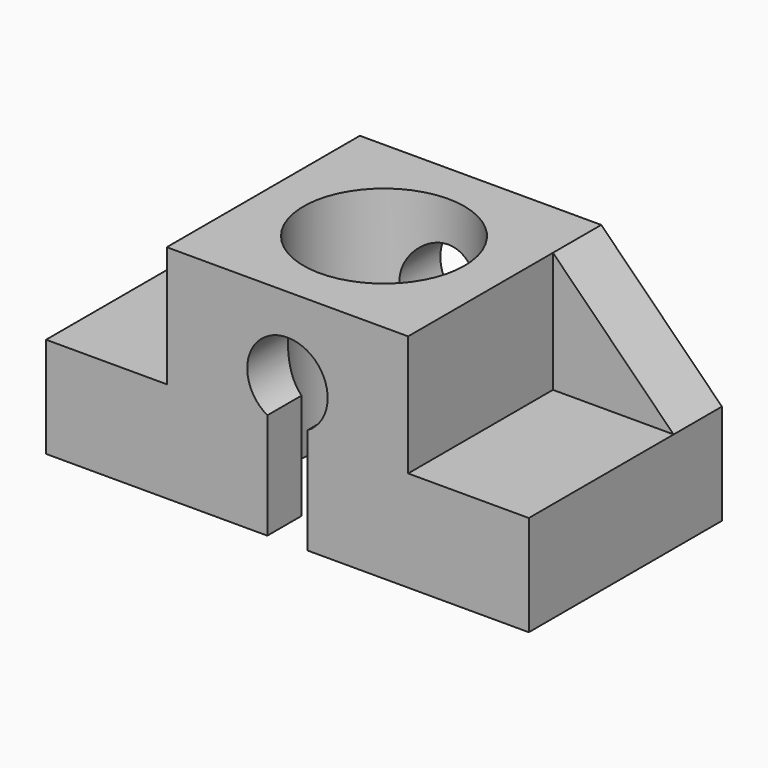
from build123d import *

# Parameters (mm, degrees)
F1_DEPTH = 600
F3_DEPTH = 150
F5_DEPTH = 600.001
F6_R     = 200
F7_DEPTH = 550.001


with BuildPart() as f1:
    # F0 (on Front) → F1 (new body)
    with BuildSketch(Plane.XZ):
        Polygon((-600, -25), (-600, -275), (600, -275), (600, -25), (300, -25), (300, 275), (-300, 275), (-300, -25), align=None)
    extrude(amount=F1_DEPTH)

    # F2 (on face) → F3 (join)
    with BuildSketch(Plane(origin=(0, 0, 0), x_dir=(-1, 0, 0), z_dir=(0, 1, 0))):
        Polygon((-300, -25), (-300, 275), (-600, -25), align=None)
        Polygon((600, -25), (300, 275), (300, -25), align=None)
    extrude(amount=-F3_DEPTH)

    # F4 (on face) → F5 (cut, through all)
    with BuildSketch(Plane.XZ.offset(600)):
        with BuildLine():
            Line((50, -625), (50, -11.60254))
            ThreePointArc((50, -11.60254), (0, 175), (-50, -11.60254))
            Line((-50, -11.60254), (-50, -625))
            Line((-50, -625), (50, -625))
        make_face()
    extrude(amount=-F5_DEPTH, mode=Mode.SUBTRACT)

    # F6 (on face) → F7 (cut, through all)
    with BuildSketch(Plane.XY.offset(275)):
        with Locations((0, -300)):
            Circle(F6_R)
    extrude(amount=-F7_DEPTH, mode=Mode.SUBTRACT)


solid = f1.part
